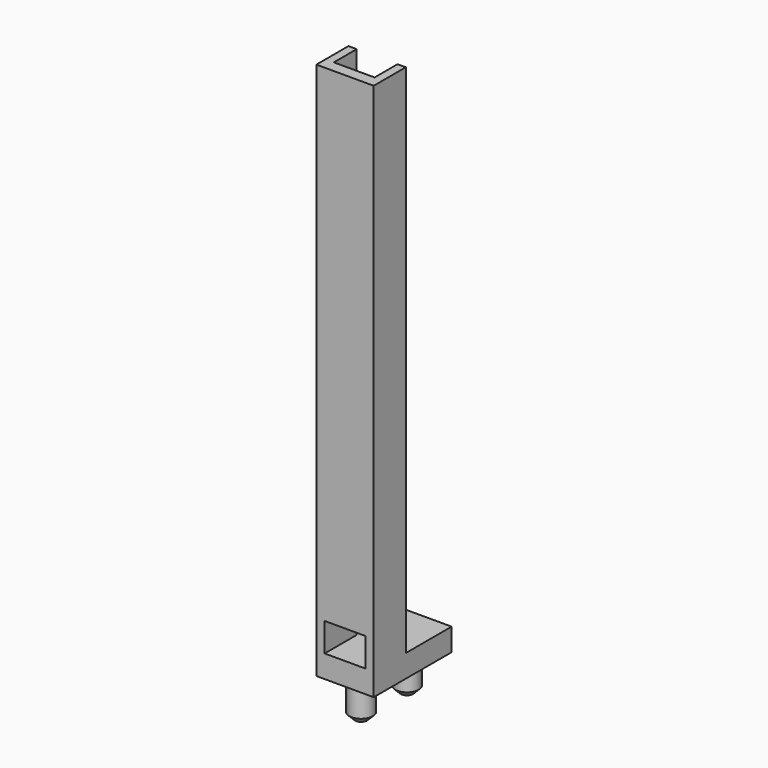
from build123d import *

# Parameters (mm, degrees)
F0_W     = 12.7
F0_H     = 21.59
F1_DEPTH = 5
F2_R     = 2.599995
F3_DEPTH = 8
F4_SIZE  = 1.27
F6_DEPTH = 114.3
F7_W     = 9.0424
F7_H     = 6.35
F8_DEPTH = 2.54


with BuildPart() as f1:
    # F0 (on Top) → F1 (new body)
    with BuildSketch(Plane.XY):
        Rectangle(F0_W, F0_H)
    extrude(amount=F1_DEPTH)

    # F2 (on face) → F3 (join)
    with BuildSketch(Plane(origin=(0, 0, 0), x_dir=(1, 0, 0), z_dir=(0, 0, -1))):
        with Locations((0, 6.35)):
            Circle(F2_R)
        with Locations((0, -6.35)):
            Circle(F2_R)
    extrude(amount=F3_DEPTH)

    # F4
    f4_edges = [f1.edges().sort_by_distance(p)[0] for p in [
        (-2.599995, -6.35, -8),
        (-2.599995, 6.35, -8),
    ]]
    chamfer(f4_edges, length=F4_SIZE)

    # F5 (on face) → F6 (join)
    with BuildSketch(Plane.XY.offset(5)):
        Polygon((-6.35, -10.795), (6.35, -10.795), (6.35, -1.905), (4.5212, -1.905), (4.5212, -8.255), (-4.5212, -8.255), (-4.5212, -1.905), (-6.35, -1.905), align=None)
    extrude(amount=F6_DEPTH)

    # F7 (on face) → F8 (cut, through all)
    with BuildSketch(Plane(origin=(0, -8.255, 0), x_dir=(-1, 0, 0), z_dir=(0, 1, 0))):
        with Locations((0, 8.175)):
            Rectangle(F7_W, F7_H)
    extrude(amount=-F8_DEPTH, mode=Mode.SUBTRACT)


solid = f1.part
